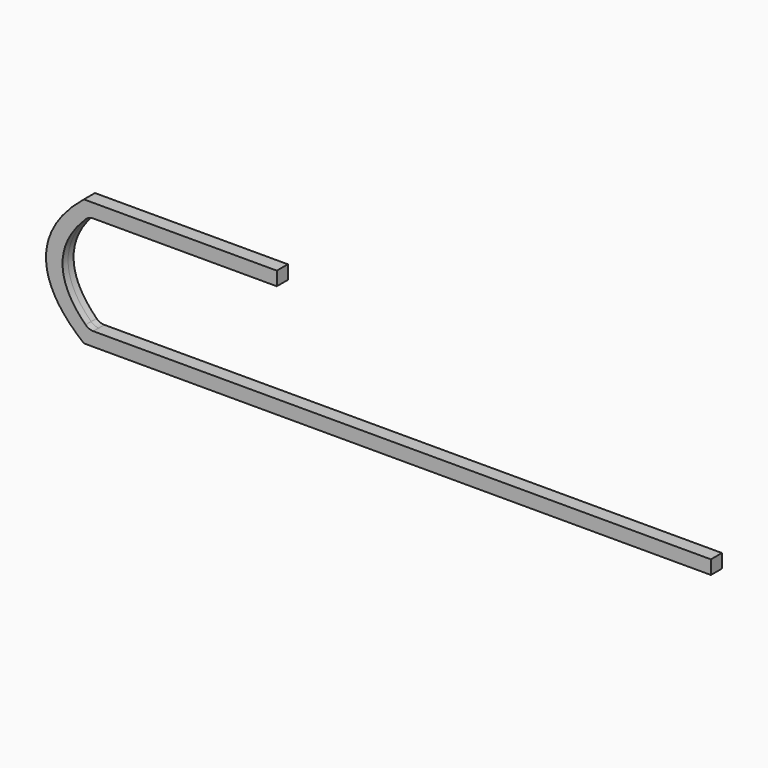
from build123d import *

# Parameters (mm, degrees)
F1_DEPTH = 12.5
F2_R     = 20


with BuildPart() as f1:
    # F0 (on Front) → F1 (new body, symmetric)
    with BuildSketch(Plane.XZ):
        with BuildLine():
            Line((350, 230), (40.97295, 230))
            add(Edge.make_bspline(
                [(40.97295, 230), (23.126675, 217.746632), (9.160026, 205)],
                knots=[5.851743, 5.851743, 5.851743, 5.949769, 5.949769, 5.949769], degree=2, weights=[1, 0.998799, 1]))
            Line((9.160026, 205), (350, 205))
            Line((350, 205), (350, 230))
        make_face()
        with BuildLine():
            add(Edge.make_bspline(
                [(-68.75094, 115), (-68.75094, 55.216574), (0, 0)],
                knots=[0, 0, 0, 0.393403, 0.393403, 0.393403], degree=2, weights=[1, 0.980717, 1]))
            Line((0, 0), (40.97295, 0))
            add(Edge.make_bspline(
                [(9.160026, 25), (23.126675, 12.253368), (40.97295, 0)],
                knots=[0.333416, 0.333416, 0.333416, 0.431443, 0.431443, 0.431443], degree=2, weights=[1, 0.998799, 1]))
            add(Edge.make_bspline(
                [(-38.75094, 115), (-38.75094, 68.725839), (9.160026, 25)],
                knots=[0, 0, 0, 0.333416, 0.333416, 0.333416], degree=2, weights=[1, 0.986136, 1]))
            add(Edge.make_bspline(
                [(9.160026, 205), (-38.75094, 161.274161), (-38.75094, 115)],
                knots=[5.949769, 5.949769, 5.949769, 6.283185, 6.283185, 6.283185], degree=2, weights=[1, 0.986136, 1]))
            add(Edge.make_bspline(
                [(40.97295, 230), (23.126675, 217.746632), (9.160026, 205)],
                knots=[5.851743, 5.851743, 5.851743, 5.949769, 5.949769, 5.949769], degree=2, weights=[1, 0.998799, 1]))
            Line((40.97295, 230), (0, 230))
            add(Edge.make_bspline(
                [(0, 230), (-68.75094, 174.783426), (-68.75094, 115)],
                knots=[5.889783, 5.889783, 5.889783, 6.283185, 6.283185, 6.283185], degree=2, weights=[1, 0.980717, 1]))
        make_face()
        with BuildLine():
            add(Edge.make_bspline(
                [(9.160026, 25), (23.126675, 12.253368), (40.97295, 0)],
                knots=[0.333416, 0.333416, 0.333416, 0.431443, 0.431443, 0.431443], degree=2, weights=[1, 0.998799, 1]))
            Line((40.97295, 0), (1137.5, 0))
            Line((1137.5, 0), (1137.5, 25))
            Line((1137.5, 25), (9.160026, 25))
        make_face()
    extrude(amount=F1_DEPTH, both=True)

    # F2
    f2_edges = [f1.edges().sort_by_distance(p)[0] for p in [
        (9.160026, -6.25, 25),
        (9.160026, 6.25, 205),
    ]]
    fillet(f2_edges, radius=F2_R)


solid = f1.part
